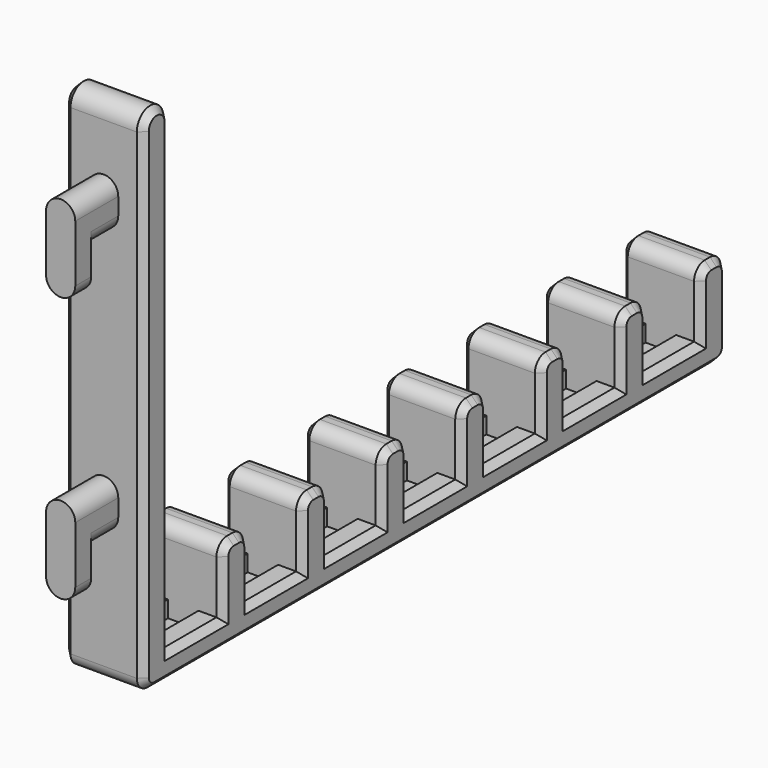
from build123d import *

# Parameters (mm, degrees)
SKETCH_W        = 12
SKETCH_H        = 77
PAD_DEPTH       = 5
PAD001_DEPTH    = 5.1
PAD002_DEPTH    = 3
SKETCH003_W     = 4
SKETCH003_H     = 105
SKETCH003_W_2   = 10
SKETCH003_H_2   = 5
PAD003_DEPTH    = 12
SKETCH004_W     = 4.6
SKETCH004_H     = 10
POCKET_DEPTH    = 2.5
POCKET001_DEPTH = 12.001
FILLET_R        = 2
CHAMFER_SIZE    = 1


with BuildPart() as part:
    # Sketch → Pad (new body)
    with BuildSketch(Plane.XZ):
        with Locations((0, 38.5)):
            Rectangle(SKETCH_W, SKETCH_H)
    extrude(amount=PAD_DEPTH)

    # Sketch001 (on Face6 of Pad) → Pad001 (join)
    with BuildSketch(Plane.XZ.offset(5)):
        with BuildLine():
            Line((-2.2, 25.05), (-2.2, 22.45))
            ThreePointArc((-2.2, 22.45), (0, 20.25), (2.2, 22.45))
            Line((2.2, 25.05), (2.2, 22.45))
            ThreePointArc((2.2, 25.05), (0, 27.25), (-2.2, 25.05))
        make_face()
        with BuildLine():
            Line((-2.2, 65.05), (-2.2, 62.45))
            ThreePointArc((-2.2, 62.45), (0, 60.25), (2.2, 62.45))
            Line((2.2, 65.05), (2.2, 62.45))
            ThreePointArc((2.2, 65.05), (0, 67.25), (-2.2, 65.05))
        make_face()
    extrude(amount=PAD001_DEPTH)

    # Sketch002 (on Face16 of Pad001) → Pad002 (join)
    with BuildSketch(Plane.XZ.offset(10.1)):
        with BuildLine():
            Line((-2.2, 25.05), (-2.2, 16.45))
            ThreePointArc((-2.2, 16.45), (0, 14.25), (2.2, 16.45))
            Line((2.2, 25.05), (2.2, 16.45))
            ThreePointArc((2.2, 25.05), (0, 27.25), (-2.2, 25.05))
        make_face()
        with BuildLine():
            Line((-2.2, 65.05), (-2.2, 56.45))
            ThreePointArc((-2.2, 56.45), (0, 54.25), (2.2, 56.45))
            Line((2.2, 65.05), (2.2, 56.45))
            ThreePointArc((2.2, 65.05), (0, 67.25), (-2.2, 65.05))
        make_face()
    extrude(amount=PAD002_DEPTH)

    # Sketch003 (on Face6 of Pad002) → Pad003 (join)
    with BuildSketch(Plane(origin=(6, 0, 0), x_dir=(0, 0, 1), z_dir=(1, 0, 0))):
        with Locations((2, -52.5)):
            Rectangle(SKETCH003_W, SKETCH003_H)
        with Locations((9, -12.5)):
            Rectangle(SKETCH003_W_2, SKETCH003_H_2)
        with Locations((9, -27.5)):
            Rectangle(SKETCH003_W_2, SKETCH003_H_2)
        with Locations((9, -42.5)):
            Rectangle(SKETCH003_W_2, SKETCH003_H_2)
        with Locations((9, -57.5)):
            Rectangle(SKETCH003_W_2, SKETCH003_H_2)
        with Locations((9, -72.5)):
            Rectangle(SKETCH003_W_2, SKETCH003_H_2)
        with Locations((9, -87.5)):
            Rectangle(SKETCH003_W_2, SKETCH003_H_2)
        with Locations((9, -102.5)):
            Rectangle(SKETCH003_W_2, SKETCH003_H_2)
    extrude(amount=-PAD003_DEPTH)

    # Sketch004 (on Face30 of Pad003) → Pocket (cut)
    with BuildSketch(Plane(origin=(0, 0, 4), x_dir=(-1, 0, 0), z_dir=(0, 0, 1))):
        with Locations((0, -5)):
            Rectangle(SKETCH004_W, SKETCH004_H)
        with Locations((0, -20)):
            Rectangle(SKETCH004_W, SKETCH004_H)
        with Locations((0, -35)):
            Rectangle(SKETCH004_W, SKETCH004_H)
        with Locations((0, -50)):
            Rectangle(SKETCH004_W, SKETCH004_H)
        with Locations((0, -65)):
            Rectangle(SKETCH004_W, SKETCH004_H)
        with Locations((0, -80)):
            Rectangle(SKETCH004_W, SKETCH004_H)
        with Locations((0, -95)):
            Rectangle(SKETCH004_W, SKETCH004_H)
    extrude(amount=-POCKET_DEPTH, mode=Mode.SUBTRACT)

    # Sketch005 (on Face5 of Pocket) → Pocket001 (cut, through all)
    with BuildSketch(Plane(origin=(6, 0, 0), x_dir=(0, 0, 1), z_dir=(1, 0, 0))):
        with BuildLine():
            ThreePointArc((74.499999, 0), (77, 2.5), (74.5, 5))
            Line((74.5, 5), (77.1, 5))
            Line((77.1, 5), (77.099999, 0))
            Line((74.499999, 0), (77.099999, 0))
        make_face()
    extrude(amount=-POCKET001_DEPTH, mode=Mode.SUBTRACT)

    # Fillet
    fillet_edges = [part.edges().sort_by_distance(p)[0] for p in [
        (0, 105, 0),
        (0, -5, 0),
        (0, 105, 14),
        (0, 100, 14),
        (0, 90, 14),
        (0, 85, 14),
        (0, 75, 14),
        (0, 70, 14),
        (0, 60, 14),
        (0, 55, 14),
        (0, 45, 14),
        (0, 40, 14),
        (0, 30, 14),
        (0, 25, 14),
        (0, 15, 14),
        (0, 10, 14),
    ]]
    fillet(fillet_edges, radius=FILLET_R)

    # Chamfer
    chamfer_edges = [part.edges().sort_by_distance(p)[0] for p in [
        (6, -5, 38.25),
        (6, -4.414214, 0.585786),
        (6, -4.267767, 76.267767),
        (6, 50, 0),
        (6, -0.732233, 76.267767),
        (6, 104.414214, 0.585786),
        (6, 0, 39.25),
        (6, 105, 7),
        (6, 5, 4),
        (6, 104.414214, 13.414214),
        (6, 10, 8),
        (6, 102.5, 14),
        (6, 10.585786, 13.414214),
        (6, 100.585786, 13.414214),
        (6, 12.5, 14),
        (6, 100, 8),
        (6, 14.414214, 13.414214),
        (6, 95, 4),
        (6, 15, 8),
        (6, 90, 8),
        (6, 20, 4),
        (6, 89.414214, 13.414214),
        (6, 25, 8),
        (6, 87.5, 14),
        (6, 25.585786, 13.414214),
        (6, 85.585786, 13.414214),
        (6, 27.5, 14),
        (6, 85, 8),
        (6, 29.414214, 13.414214),
        (6, 80, 4),
        (6, 30, 8),
        (6, 75, 8),
        (6, 35, 4),
        (6, 74.414214, 13.414214),
        (6, 40, 8),
        (6, 72.5, 14),
        (6, 40.585786, 13.414214),
        (6, 70.585786, 13.414214),
        (6, 42.5, 14),
        (6, 70, 8),
        (6, 44.414214, 13.414214),
        (6, 65, 4),
        (6, 45, 8),
        (6, 60, 8),
        (6, 50, 4),
        (6, 59.414214, 13.414214),
        (6, 55, 8),
        (6, 57.5, 14),
        (6, 55.585786, 13.414214),
        (-6, -5, 38.25),
        (-6, -4.414214, 0.585786),
        (-6, -4.267767, 76.267767),
        (-6, 50, 0),
        (-6, -0.732233, 76.267767),
        (-6, 104.414214, 0.585786),
        (-6, 0, 39.25),
        (-6, 105, 7),
        (-6, 5, 4),
        (-6, 104.414214, 13.414214),
        (-6, 10, 8),
        (-6, 102.5, 14),
        (-6, 10.585786, 13.414214),
        (-6, 100.585786, 13.414214),
        (-6, 12.5, 14),
        (-6, 100, 8),
        (-6, 14.414214, 13.414214),
        (-6, 95, 4),
        (-6, 15, 8),
        (-6, 90, 8),
        (-6, 20, 4),
        (-6, 89.414214, 13.414214),
        (-6, 25, 8),
        (-6, 87.5, 14),
        (-6, 25.585786, 13.414214),
        (-6, 85.585786, 13.414214),
        (-6, 27.5, 14),
        (-6, 85, 8),
        (-6, 29.414214, 13.414214),
        (-6, 80, 4),
        (-6, 30, 8),
        (-6, 75, 8),
        (-6, 35, 4),
        (-6, 74.414214, 13.414214),
        (-6, 40, 8),
        (-6, 72.5, 14),
        (-6, 40.585786, 13.414214),
        (-6, 70.585786, 13.414214),
        (-6, 42.5, 14),
        (-6, 70, 8),
        (-6, 44.414214, 13.414214),
        (-6, 65, 4),
        (-6, 45, 8),
        (-6, 60, 8),
        (-6, 50, 4),
        (-6, 59.414214, 13.414214),
        (-6, 55, 8),
        (-6, 57.5, 14),
        (-6, 55.585786, 13.414214),
    ]]
    chamfer(chamfer_edges, length=CHAMFER_SIZE)


solid = part.part
